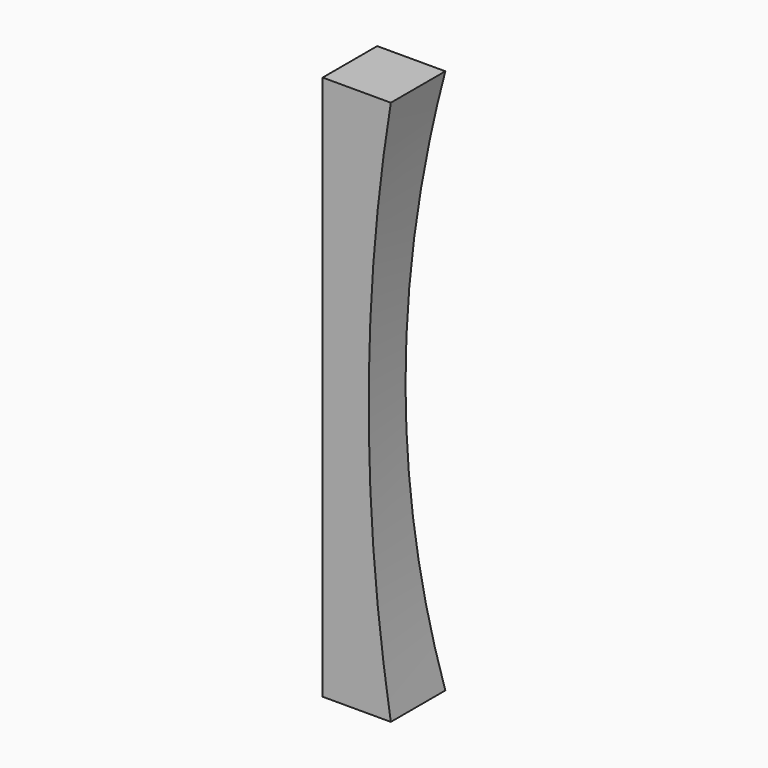
from build123d import *

# Parameters (mm, degrees)
F0_W     = 76.2
F0_H     = 76.2
F1_DEPTH = 609.6


with BuildPart() as f1:
    # F0 (on Top) → F1 (new body)
    with BuildSketch(Plane.XY):
        with Locations((38.1, 38.1)):
            Rectangle(F0_W, F0_H)
    extrude(amount=F1_DEPTH)

    # F3: sweep along a path in F3_path
    with BuildLine(Plane(origin=(76.2, 0, 609.6), x_dir=(0, -1, 0), z_dir=(0, 0, -1))) as f3_path:
        Line((0, 0), (-76.2, 0))
        Line((-76.2, 0), (-76.2, 76.2))
    # F2 (on face) → F3 (sweep, cut)
    with BuildSketch(Plane.XZ):
        with BuildLine():
            Line((76.2, 0), (76.2, 609.6))
            ThreePointArc((76.2, 609.6), (51.4645742233, 304.8), (76.2, 0))
        make_face()
    sweep(path=f3_path.line, transition=Transition.RIGHT, mode=Mode.SUBTRACT)


solid = f1.part
